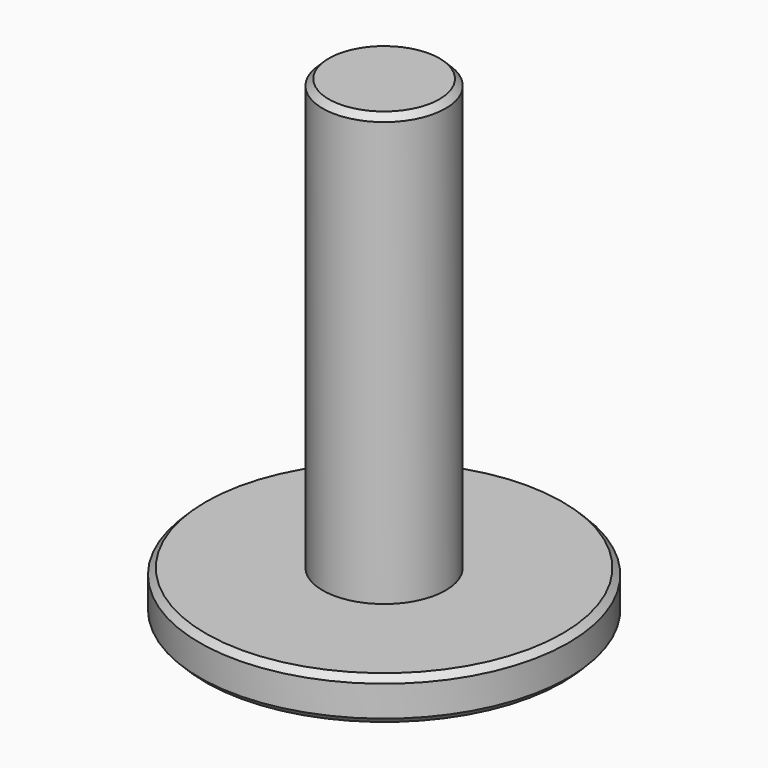
from build123d import *

# Parameters (mm, degrees)
SKETCH_R     = 30
PAD_DEPTH    = 7
SKETCH001_R  = 10
PAD001_DEPTH = 70
SKETCH002_R  = 2.05
POCKET_DEPTH = 6
CHAMFER_SIZE = 1


with BuildPart() as part:
    # Sketch → Pad (new body)
    with BuildSketch(Plane.XY):
        Circle(SKETCH_R)
    extrude(amount=PAD_DEPTH)

    # Sketch001 (on Face3 of Pad) → Pad001 (join)
    with BuildSketch(Plane.XY.offset(7)):
        Circle(SKETCH001_R)
    extrude(amount=PAD001_DEPTH)

    # Sketch002 (on Face2 of Pad001) → Pocket (cut)
    with BuildSketch(Plane(origin=(0, 0, 0), x_dir=(1, 0, 0), z_dir=(0, 0, -1))):
        with Locations((0, 22)):
            Circle(SKETCH002_R)
        with Locations((22, 0)):
            Circle(SKETCH002_R)
        with Locations((-22, 0)):
            Circle(SKETCH002_R)
        with Locations((0, -22)):
            Circle(SKETCH002_R)
    extrude(amount=-POCKET_DEPTH, mode=Mode.SUBTRACT)

    # Chamfer
    chamfer_edges = [part.edges().sort_by_distance(p)[0] for p in [
        (-30, 0, 0),
        (-30, 0, 7),
        (-10, 0, 77),
    ]]
    chamfer(chamfer_edges, length=CHAMFER_SIZE)


with BuildPart() as part_1:
    # Body placement: moved
    add(part.part.moved(Location((0, 0, -78))))


solid = part_1.part
